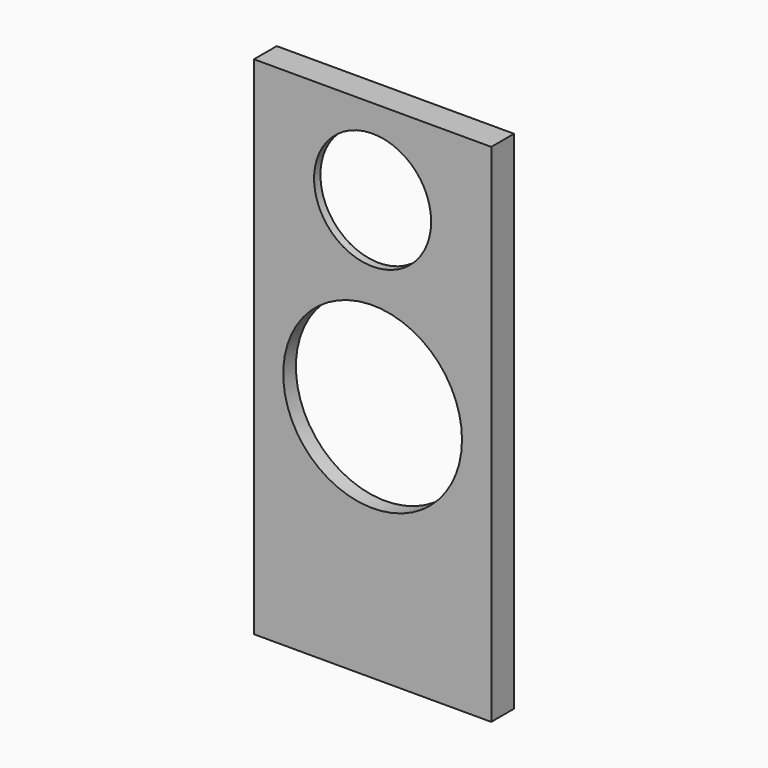
from build123d import *

# Parameters (mm, degrees)
F0_W     = 150
F0_H     = 320
F0_R     = 56.5
F0_R_2   = 37
F1_DEPTH = 18
F2_DEPTH = 8
F3_DEPTH = 13
F4_DEPTH = 25
F5_DEPTH = 25


with BuildPart() as f1:
    # F0 (on Front) → F1 (new body)
    with BuildSketch(Plane.XZ):
        with Locations((51.2499984354, 41.7307654023)):
            Rectangle(F0_W, F0_H)
        with BuildLine():
            ThreePointArc((31.135600184, 99.7785914893), (22.4571929891, 191.0317394622), (103.2499984354, 147.7307654023))
            ThreePointArc((103.2499984354, 147.7307654023), (94.5509724953, 118.9379599561), (71.3643966867, 99.7785914893))
            ThreePointArc((71.3643966867, 99.7785914893), (107.4105178311, 74.5158831023), (121.2499984354, 32.7307654023))
            ThreePointArc((121.2499984354, 32.7307654023), (9.4648807354, -23.4297539934), (31.135600184, 99.7785914893))
        make_face(mode=Mode.SUBTRACT)
        with BuildLine():
            ThreePointArc((71.3643966867, 99.7785914893), (51.2499984354, 95.7307654023), (31.135600184, 99.7785914893))
            ThreePointArc((31.135600184, 99.7785914893), (9.4648807354, -23.4297539934), (121.2499984354, 32.7307654023))
            ThreePointArc((121.2499984354, 32.7307654023), (107.4105178311, 74.5158831023), (71.3643966867, 99.7785914893))
        make_face()
        with Locations((51.2499984354, 32.7307654023)):
            Circle(F0_R, mode=Mode.SUBTRACT)
        with Locations((51.2499984354, 32.7307654023)):
            Circle(F0_R)
        with BuildLine():
            ThreePointArc((71.3643966867, 99.7785914893), (94.5509724953, 118.9379599561), (103.2499984354, 147.7307654023))
            ThreePointArc((103.2499984354, 147.7307654023), (22.4571929891, 191.0317394622), (31.135600184, 99.7785914893))
            ThreePointArc((31.135600184, 99.7785914893), (51.2499984354, 102.7307654023), (71.3643966867, 99.7785914893))
        make_face()
        with Locations((51.2499984354, 147.7307654023)):
            Circle(F0_R_2, mode=Mode.SUBTRACT)
        with Locations((51.2499984354, 147.7307654023)):
            Circle(F0_R_2)
        with BuildLine():
            ThreePointArc((71.3643966867, 99.7785914893), (51.2499984354, 102.7307654023), (31.135600184, 99.7785914893))
            ThreePointArc((31.135600184, 99.7785914893), (51.2499984354, 95.7307654023), (71.3643966867, 99.7785914893))
        make_face()
    extrude(amount=F1_DEPTH)

    # F0 (on Front) → F2 (cut)
    with BuildSketch(Plane.XZ):
        with BuildLine():
            ThreePointArc((71.3643966867, 99.7785914893), (51.2499984354, 95.7307654023), (31.135600184, 99.7785914893))
            ThreePointArc((31.135600184, 99.7785914893), (9.4648807354, -23.4297539934), (121.2499984354, 32.7307654023))
            ThreePointArc((121.2499984354, 32.7307654023), (107.4105178311, 74.5158831023), (71.3643966867, 99.7785914893))
        make_face()
        with Locations((51.2499984354, 32.7307654023)):
            Circle(F0_R, mode=Mode.SUBTRACT)
        with Locations((51.2499984354, 32.7307654023)):
            Circle(F0_R)
        with BuildLine():
            ThreePointArc((71.3643966867, 99.7785914893), (51.2499984354, 102.7307654023), (31.135600184, 99.7785914893))
            ThreePointArc((31.135600184, 99.7785914893), (51.2499984354, 95.7307654023), (71.3643966867, 99.7785914893))
        make_face()
    extrude(amount=F2_DEPTH, mode=Mode.SUBTRACT)

    # F0 (on Front) → F3 (cut)
    with BuildSketch(Plane.XZ):
        with BuildLine():
            ThreePointArc((71.3643966867, 99.7785914893), (94.5509724953, 118.9379599561), (103.2499984354, 147.7307654023))
            ThreePointArc((103.2499984354, 147.7307654023), (22.4571929891, 191.0317394622), (31.135600184, 99.7785914893))
            ThreePointArc((31.135600184, 99.7785914893), (51.2499984354, 102.7307654023), (71.3643966867, 99.7785914893))
        make_face()
        with Locations((51.2499984354, 147.7307654023)):
            Circle(F0_R_2, mode=Mode.SUBTRACT)
        with Locations((51.2499984354, 147.7307654023)):
            Circle(F0_R_2)
        with BuildLine():
            ThreePointArc((71.3643966867, 99.7785914893), (51.2499984354, 102.7307654023), (31.135600184, 99.7785914893))
            ThreePointArc((31.135600184, 99.7785914893), (51.2499984354, 95.7307654023), (71.3643966867, 99.7785914893))
        make_face()
    extrude(amount=F3_DEPTH, mode=Mode.SUBTRACT)

    # F0 (on Front) → F4 (cut)
    with BuildSketch(Plane.XZ):
        with Locations((51.2499984354, 147.7307654023)):
            Circle(F0_R_2)
    extrude(amount=F4_DEPTH, mode=Mode.SUBTRACT)

    # F0 (on Front) → F5 (cut)
    with BuildSketch(Plane.XZ):
        with Locations((51.2499984354, 32.7307654023)):
            Circle(F0_R)
    extrude(amount=F5_DEPTH, mode=Mode.SUBTRACT)


solid = f1.part
